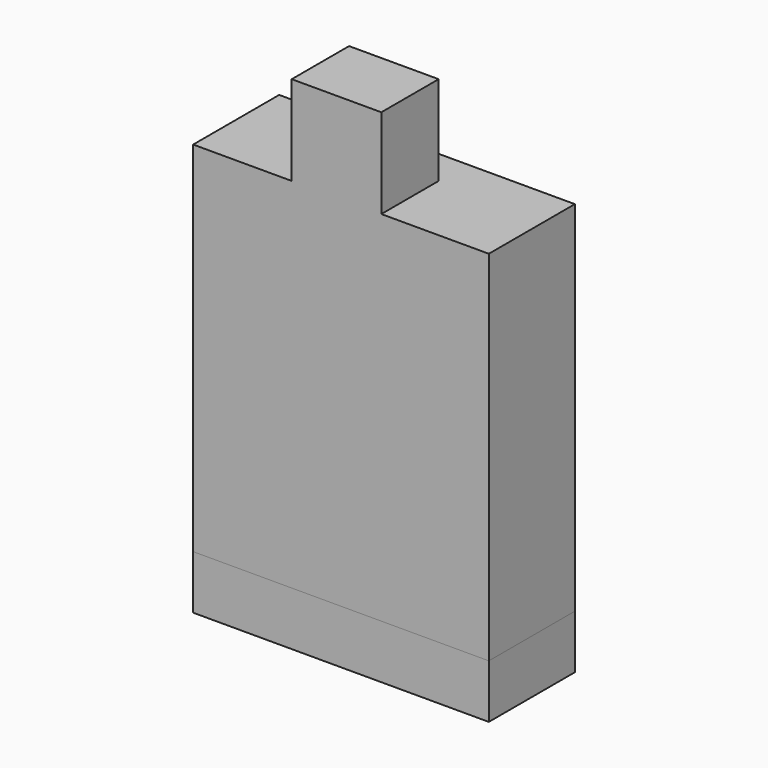
from build123d import *

# Parameters (mm, degrees)
F0_W     = 1650
F0_H     = 600
F1_DEPTH = 300
F2_W     = 1650
F2_H     = 600
F3_DEPTH = 2000
F4_W     = 10
F4_H     = 2000
F5_DEPTH = 15
F6_W     = 500
F6_H     = 400
F7_DEPTH = 500


with BuildPart() as f1:
    # F0 (on Top) → F1 (new body)
    with BuildSketch(Plane.XY):
        with Locations((825, 300)):
            Rectangle(F0_W, F0_H)
    extrude(amount=F1_DEPTH)


with BuildPart() as f3:
    # F2 (on face) → F3 (new body)
    with BuildSketch(Plane.XY.offset(300)):
        with Locations((825, 300)):
            Rectangle(F2_W, F2_H)
    extrude(amount=F3_DEPTH)

    # F4 (on face) → F5 (cut)
    with BuildSketch(Plane(origin=(0, 600, 0), x_dir=(-1, 0, 0), z_dir=(0, 1, 0))):
        with Locations((-820, 1300)):
            Rectangle(F4_W, F4_H)
    extrude(amount=-F5_DEPTH, mode=Mode.SUBTRACT)

    # F6 (on face) → F7 (join)
    with BuildSketch(Plane.XY.offset(2300)):
        with Locations((800, 200)):
            Rectangle(F6_W, F6_H)
    extrude(amount=F7_DEPTH)


solid = Compound([f1.part, f3.part])
